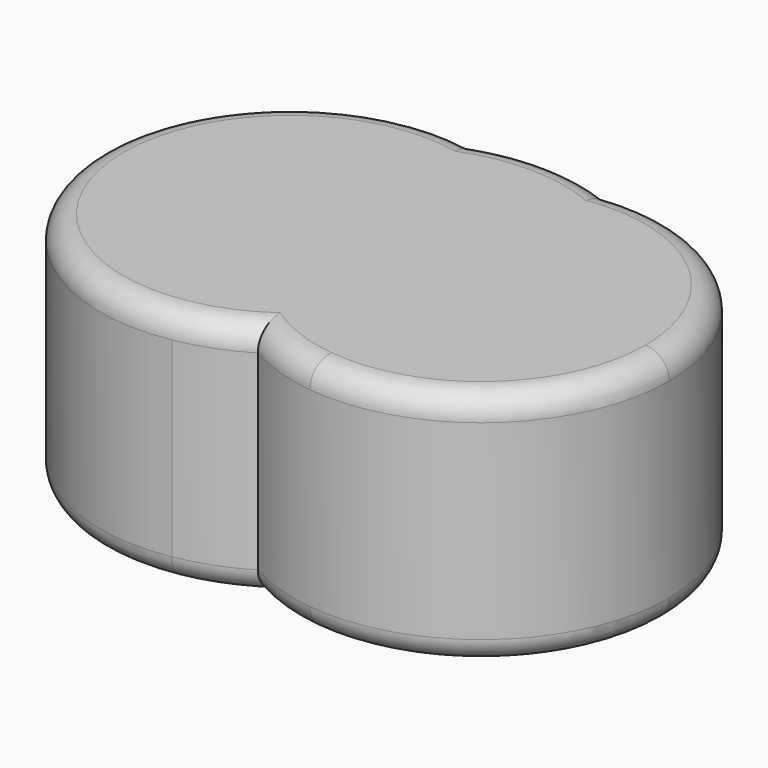
from build123d import *

# Parameters (mm, degrees)
F1_DEPTH = 25
F2_DEPTH = 25
F3_R     = 5


with BuildPart() as f1:
    # F0 (on Top) → F1 (new body)
    with BuildSketch(Plane.XY):
        with BuildLine():
            ThreePointArc((-13.9063807078, -39.4297258268), (-41.8101746369, 0), (-13.9063807078, 39.4297258268))
            ThreePointArc((-13.9063807078, 39.4297258268), (-60.6185237596, 0), (-13.9063807078, -39.4297258268))
        make_face()
        with BuildLine():
            ThreePointArc((-0.0174014932, 34.2823190322), (-6.7215345173, 37.5045640586), (-13.9063807078, 39.4297258268))
            ThreePointArc((-13.9063807078, 39.4297258268), (-41.8101746369, 0), (-13.9063807078, -39.4297258268))
            ThreePointArc((-13.9063807078, -39.4297258268), (-6.7215345173, -37.5045640586), (-0.0174014932, -34.2823190322))
            ThreePointArc((-0.0174014932, -34.2823190322), (-20.0114496486, 0), (-0.0174014932, 34.2823190322))
        make_face()
        with BuildLine():
            ThreePointArc((19.3762558232, 0), (14.1918428442, 19.6938527359), (-0.0174014932, 34.2823190322))
            ThreePointArc((-0.0174014932, 34.2823190322), (-20.0114496486, 0), (-0.0174014932, -34.2823190322))
            ThreePointArc((-0.0174014932, -34.2823190322), (14.1918428442, -19.6938527359), (19.3762558232, 0))
        make_face()
        with BuildLine():
            ThreePointArc((14.7639114539, -39.1167179317), (34.3902051417, -23.7782357099), (41.8101746369, 0))
            ThreePointArc((41.8101746369, 0), (34.3902051417, 23.7782357099), (14.7639114539, 39.1167179317))
            ThreePointArc((14.7639114539, 39.1167179317), (7.1322825133, 37.4362986941), (-0.0174014932, 34.2823190322))
            ThreePointArc((-0.0174014932, 34.2823190322), (14.1918428442, 19.6938527359), (19.3762558232, 0))
            ThreePointArc((19.3762558232, 0), (14.1918428442, -19.6938527359), (-0.0174014932, -34.2823190322))
            ThreePointArc((-0.0174014932, -34.2823190322), (7.1322825133, -37.4362986941), (14.7639114539, -39.1167179317))
        make_face()
        with BuildLine():
            ThreePointArc((14.7639114539, 39.1167179317), (34.3902051417, 23.7782357099), (41.8101746369, 0))
            ThreePointArc((41.8101746369, 0), (34.3902051417, -23.7782357099), (14.7639114539, -39.1167179317))
            ThreePointArc((14.7639114539, -39.1167179317), (45.546101837, -29.436890154), (58.7639612949, 0))
            ThreePointArc((58.7639612949, 0), (45.546101837, 29.436890154), (14.7639114539, 39.1167179317))
        make_face()
        with BuildLine():
            ThreePointArc((-0.0174014932, 34.2823190322), (7.1322825133, 37.4362986941), (14.7639114539, 39.1167179317))
            ThreePointArc((14.7639114539, 39.1167179317), (0.4564353522, 41.8076831448), (-13.9063807078, 39.4297258268))
            ThreePointArc((-13.9063807078, 39.4297258268), (-6.7215345173, 37.5045640586), (-0.0174014932, 34.2823190322))
        make_face()
    extrude(amount=F1_DEPTH)

    # F2 (add): a face of the model
    f2_faces = [f1.faces().sort_by_distance(p)[0] for p in [
        (-1.0668133748, 0.5074400714, 25),
    ]]
    extrude(f2_faces, amount=F2_DEPTH)

    # F3
    f3_edges = [f1.edges().sort_by_distance(p)[0] for p in [
        (57.988776, -7.775902, 50),
        (-59.926875, -7.406071, 50),
        (0.456435, 41.807683, 50),
        (-59.926875, -7.406071, 0),
        (57.988776, -7.775902, 0),
    ]]
    fillet(f3_edges, radius=F3_R)


solid = f1.part
